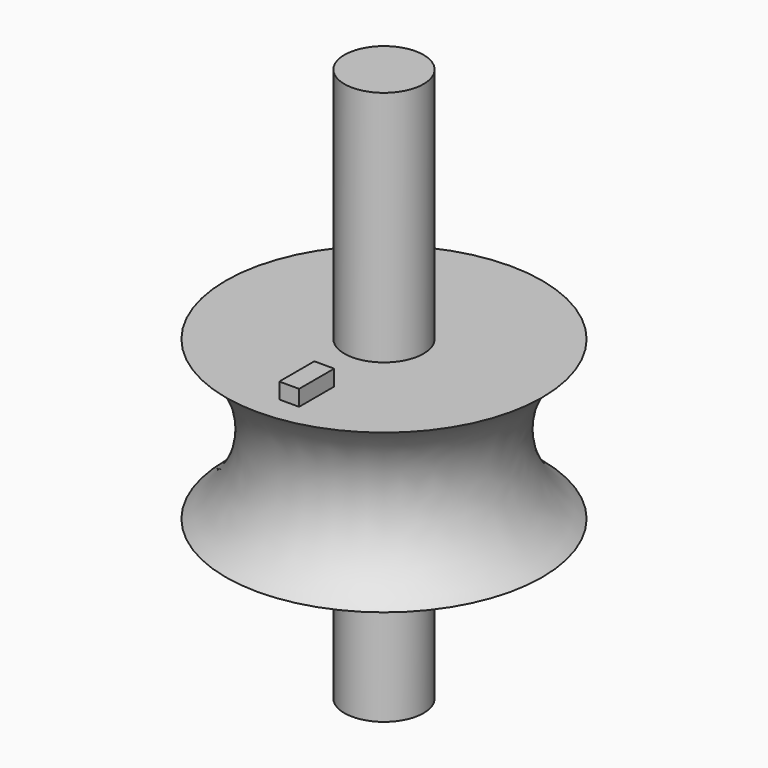
from build123d import *

# Parameters (mm, degrees)
F2_W     = 2.503898
F2_H     = 5.537905
F3_DEPTH = 2


with BuildPart() as f1:
    # F0 (on Front) → F1 (revolve)
    with BuildSketch(Plane.XZ):
        with BuildLine():
            Line((0, 70), (0, 0))
            Line((0, 0), (5, 0))
            Line((5, 0), (5, 20))
            Line((5, 20), (20, 20))
            ThreePointArc((20, 20), (14.662927, 30), (20, 40))
            Line((20, 40), (5, 40))
            Line((5, 40), (5, 70))
            Line((5, 70), (0, 70))
        make_face()
    revolve(axis=Axis((0, 0, 35), (0, 0, 1)))

    # F2 (on face) → F3 (join)
    with BuildSketch(Plane.XY.offset(40)):
        with Locations((1.251949, -13.775359)):
            Rectangle(F2_W, F2_H)
    extrude(amount=F3_DEPTH)


solid = f1.part
